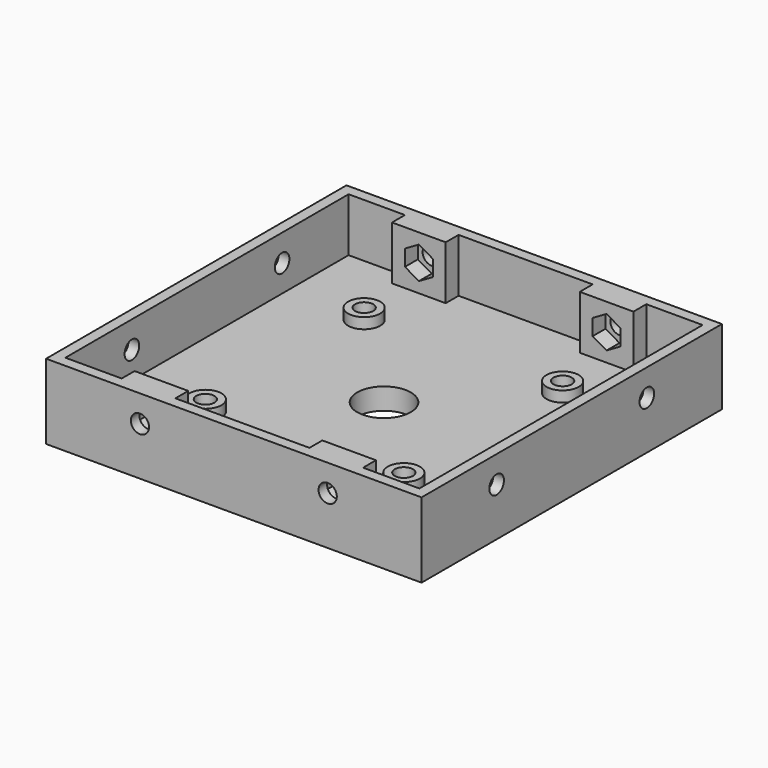
from build123d import *

# Parameters (mm, degrees)
SKETCH_W        = 70
SKETCH_H        = 70
PAD_DEPTH       = 4
SKETCH001_W     = 70
SKETCH001_H     = 70
PAD001_DEPTH    = 10
SKETCH002_R     = 1.7
POCKET_DEPTH    = 2
SKETCH003_R     = 1.7
POCKET001_DEPTH = 2
POCKET002_DEPTH = 3
SKETCH005_R     = 1.7
POCKET003_DEPTH = 2
POCKET004_DEPTH = 3
SKETCH007_R     = 1.7
POCKET005_DEPTH = 2
POCKET006_DEPTH = 3
SKETCH009_R     = 3
PAD002_DEPTH    = 2
SKETCH010_R     = 1.7
POCKET007_DEPTH = 2.8
SKETCH011_R     = 5
POCKET008_DEPTH = 4


with BuildPart() as part:
    # Sketch → Pad (new body)
    with BuildSketch(Plane.XY):
        with Locations((35, 35)):
            Rectangle(SKETCH_W, SKETCH_H)
    extrude(amount=PAD_DEPTH)

    # Sketch001 → Pad001 (new body)
    with BuildSketch(Plane.XY.offset(4)):
        with Locations((35, 35)):
            Rectangle(SKETCH001_W, SKETCH001_H)
        Polygon((2, 68), (2, 2), (12.5, 2), (12.5, 5), (22.5, 5), (22.5, 2), (47.5, 2), (47.5, 5), (57.5, 5), (57.5, 2), (68, 2), (68, 68), (57.5, 68), (57.5, 65), (47.5, 65), (47.5, 68), (22.5, 68), (22.5, 65), (12.5, 65), (12.5, 68), align=None, mode=Mode.SUBTRACT)
    extrude(amount=PAD001_DEPTH)

    # Sketch002 → Pocket (cut)
    with BuildSketch(Plane.YZ.offset(2)):
        with Locations((17.5, 9)):
            Circle(SKETCH002_R)
        with Locations((52.5, 9)):
            Circle(SKETCH002_R)
    extrude(amount=-POCKET_DEPTH, mode=Mode.SUBTRACT)

    # Sketch003 → Pocket001 (cut)
    with BuildSketch(Plane(origin=(68, 0, 0), x_dir=(0, -1, 0), z_dir=(-1, 0, 0))):
        with Locations((-52.5, 9)):
            Circle(SKETCH003_R)
        with Locations((-17.5, 9)):
            Circle(SKETCH003_R)
    extrude(amount=-POCKET001_DEPTH, mode=Mode.SUBTRACT)

    # Sketch004 → Pocket002 (cut)
    with BuildSketch(Plane(origin=(0, 5, 0), x_dir=(-1, 0, 0), z_dir=(0, 1, 0))):
        Polygon((-49.901924, 10.5), (-52.5, 12), (-55.098076, 10.5), (-55.098076, 7.5), (-52.5, 6), (-49.901924, 7.5), align=None)
        Polygon((-14.901924, 10.5), (-17.5, 12), (-20.098076, 10.5), (-20.098076, 7.5), (-17.5, 6), (-14.901924, 7.5), align=None)
    extrude(amount=-POCKET002_DEPTH, mode=Mode.SUBTRACT)

    # Sketch005 → Pocket003 (cut)
    with BuildSketch(Plane(origin=(0, 2, 0), x_dir=(-1, 0, 0), z_dir=(0, 1, 0))):
        with Locations((-52.5, 9)):
            Circle(SKETCH005_R)
        with Locations((-17.5, 9)):
            Circle(SKETCH005_R)
    extrude(amount=-POCKET003_DEPTH, mode=Mode.SUBTRACT)

    # Sketch006 → Pocket004 (cut)
    with BuildSketch(Plane.XZ.offset(-65)):
        Polygon((20.098076, 10.5), (17.5, 12), (14.901924, 10.5), (14.901924, 7.5), (17.5, 6), (20.098076, 7.5), align=None)
        Polygon((55.098076, 10.5), (52.5, 12), (49.901924, 10.5), (49.901924, 7.5), (52.5, 6), (55.098076, 7.5), align=None)
    extrude(amount=-POCKET004_DEPTH, mode=Mode.SUBTRACT)

    # Sketch007 → Pocket005 (cut)
    with BuildSketch(Plane.XZ.offset(-68)):
        with Locations((17.5, 9)):
            Circle(SKETCH007_R)
        with Locations((52.5, 9)):
            Circle(SKETCH007_R)
    extrude(amount=-POCKET005_DEPTH, mode=Mode.SUBTRACT)

    # Sketch008 → Pocket006 (cut)
    with BuildSketch(Plane(origin=(0, 0, 0), x_dir=(1, 0, 0), z_dir=(0, 0, -1))):
        Polygon((19.098076, -15), (16.5, -13.5), (13.901924, -15), (13.901924, -18), (16.5, -19.5), (19.098076, -18), align=None)
        Polygon((56.098076, -15), (53.5, -13.5), (50.901924, -15), (50.901924, -18), (53.5, -19.5), (56.098076, -18), align=None)
        Polygon((56.098076, -55), (56.098076, -52), (53.5, -50.5), (50.901924, -52), (50.901924, -55), (53.5, -56.5), align=None)
        Polygon((19.098076, -52), (16.5, -50.5), (13.901924, -52), (13.901924, -55), (16.5, -56.5), (19.098076, -55), align=None)
    extrude(amount=-POCKET006_DEPTH, mode=Mode.SUBTRACT)

    # Sketch009 → Pad002 (new body)
    with BuildSketch(Plane.XY.offset(4)):
        with Locations((16.5, 53.5)):
            Circle(SKETCH009_R)
        with Locations((53.5, 53.5)):
            Circle(SKETCH009_R)
        with Locations((53.5, 16.5)):
            Circle(SKETCH009_R)
        with Locations((16.5, 16.5)):
            Circle(SKETCH009_R)
    extrude(amount=PAD002_DEPTH)

    # Sketch010 → Pocket007 (cut)
    with BuildSketch(Plane.XY.offset(6)):
        with Locations((16.5, 53.5)):
            Circle(SKETCH010_R)
        with Locations((53.5, 53.5)):
            Circle(SKETCH010_R)
        with Locations((53.5, 16.5)):
            Circle(SKETCH010_R)
        with Locations((16.5, 16.5)):
            Circle(SKETCH010_R)
    extrude(amount=-POCKET007_DEPTH, mode=Mode.SUBTRACT)

    # Sketch011 → Pocket008 (cut)
    with BuildSketch(Plane.XY.offset(4)):
        with Locations((35, 35)):
            Circle(SKETCH011_R)
    extrude(amount=-POCKET008_DEPTH, mode=Mode.SUBTRACT)


solid = part.part
